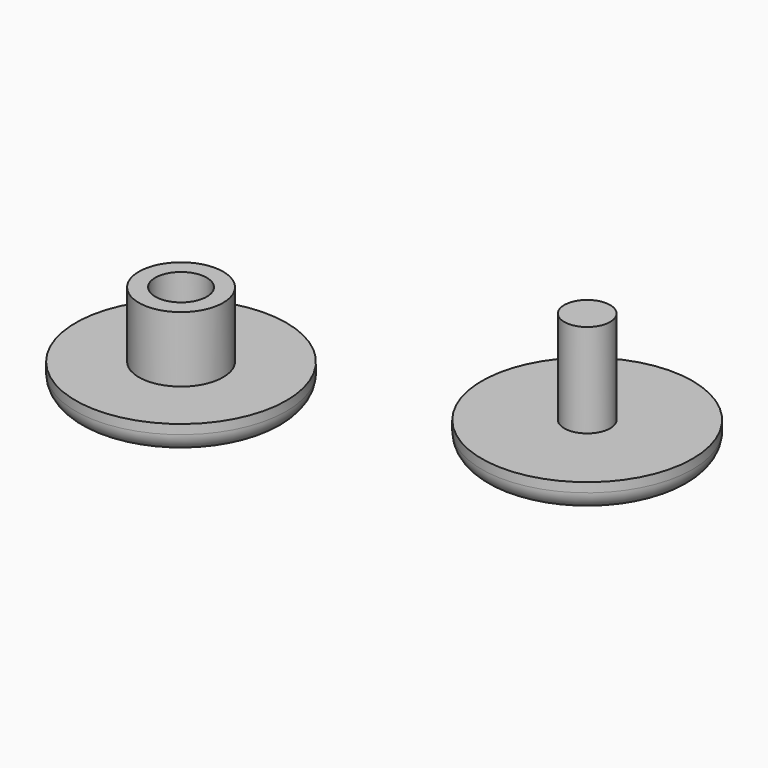
from build123d import *

# Parameters (mm, degrees)
F0_R     = 11.25
F1_DEPTH = 3
F2_R     = 4.5
F3_DEPTH = 7
F4_R     = 2.75
F5_DEPTH = 70.6
F6_R     = 11.25
F7_DEPTH = 3
F8_R     = 2.45
F9_DEPTH = 10
F10_R    = 2
F10_2_R  = 2


with BuildPart() as f1:
    # F0 (on Top) → F1 (new body)
    with BuildSketch(Plane.XY):
        Circle(F0_R)
    extrude(amount=F1_DEPTH)

    # F2 (on face) → F3 (join)
    with BuildSketch(Plane.XY.offset(3)):
        Circle(F2_R)
    extrude(amount=F3_DEPTH)

    # F4 (on face) → F5 (cut)
    with BuildSketch(Plane.XY.offset(10)):
        Circle(F4_R)
    extrude(amount=-F5_DEPTH, mode=Mode.SUBTRACT)

    # F10#2
    f10_2_edges = [f1.edges().sort_by_distance(p)[0] for p in [
        (-11.25, 0, 0),
    ]]
    fillet(f10_2_edges, radius=F10_2_R)


with BuildPart() as f7:
    # F6 (on Top) → F7 (new body)
    with BuildSketch(Plane.XY):
        with Locations((33.000633, 12.947934)):
            Circle(F6_R)
    extrude(amount=F7_DEPTH)

    # F8 (on face) → F9 (join)
    with BuildSketch(Plane.XY.offset(3)):
        with Locations((33.000633, 12.947934)):
            Circle(F8_R)
    extrude(amount=F9_DEPTH)

    # F10
    f10_edges = [f7.edges().sort_by_distance(p)[0] for p in [
        (21.750633, 12.947934, 0),
    ]]
    fillet(f10_edges, radius=F10_R)


solid = Compound([f1.part, f7.part])
